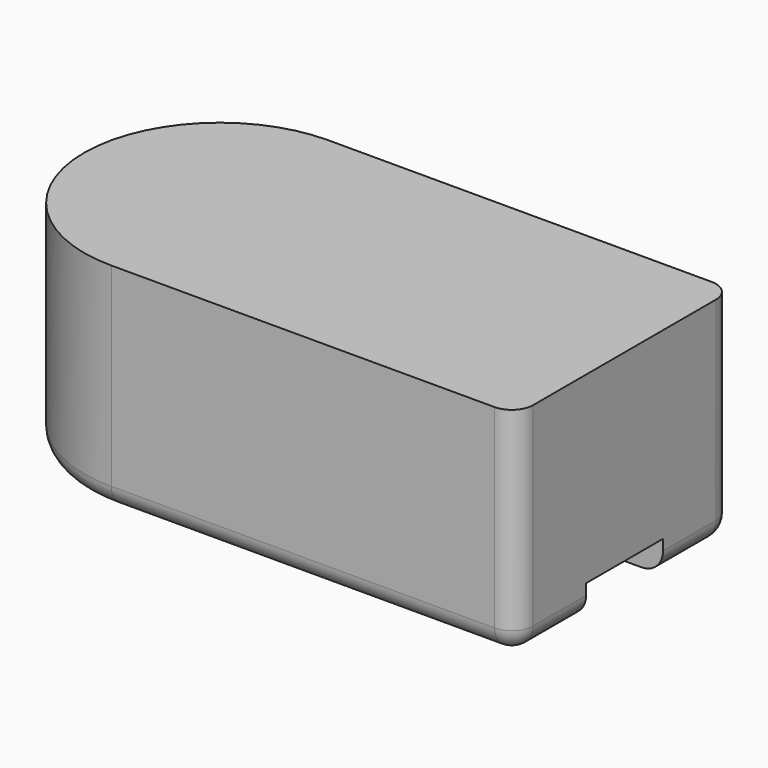
from build123d import *

# Parameters (mm, degrees)
PAD_DEPTH       = 10.1
POCKET_DEPTH    = 1.5
POCKET001_DEPTH = 1.5
FILLET003_R     = 1


with BuildPart() as part:
    # Sketch → Pad (new body)
    with BuildSketch(Plane.XY):
        with BuildLine():
            ThreePointArc((-4.411122, 6.35), (-10.761122, 0), (-4.411122, -6.35))
            Line((14.538878, -6.35), (-4.411122, -6.35))
            Line((14.538878, 6.35), (14.538878, -6.35))
            Line((-4.411122, 6.35), (14.538878, 6.35))
        make_face()
    extrude(amount=PAD_DEPTH)

    # Sketch003 → Pocket (cut)
    with BuildSketch(Plane.XY):
        with BuildLine():
            ThreePointArc((12.288878, 2.25), (10.038878, 0), (12.288878, -2.25))
            Line((12.288878, -2.25), (14.538878, -2.25))
            Line((14.538878, 2.25), (14.538878, -2.25))
            Line((12.288878, 2.25), (14.538878, 2.25))
        make_face()
    extrude(amount=POCKET_DEPTH, mode=Mode.SUBTRACT)

    # Sketch004 → Pocket001 (cut)
    with BuildSketch(Plane.XY):
        with BuildLine():
            ThreePointArc((-8.632006, -2.25), (-6.382006, 0), (-8.632006, 2.25))
            Line((-8.632006, 2.25), (-10.882006, 2.25))
            Line((-10.882006, 2.25), (-10.882006, -2.25))
            Line((-10.882006, -2.25), (-8.632006, -2.25))
        make_face()
    extrude(amount=POCKET001_DEPTH, mode=Mode.SUBTRACT)

    # Fillet003
    fillet003_edges = [part.edges().sort_by_distance(p)[0] for p in [
        (14.538878, -6.35, 5.05),
        (14.538878, 6.35, 5.05),
        (5.063878, -6.35, 0),
        (14.538878, -4.3, 0),
        (14.538878, 4.3, 0),
        (5.063878, 6.35, 0),
        (-8.019099, 5.225419, 0),
        (-8.019099, -5.225419, 0),
    ]]
    fillet(fillet003_edges, radius=FILLET003_R)


solid = part.part
